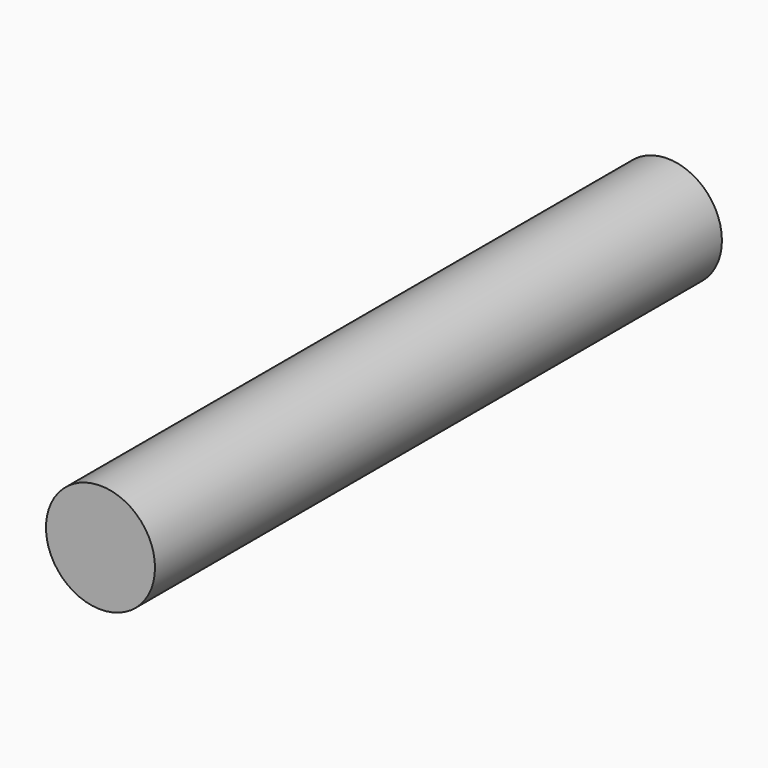
from build123d import *

# Parameters (mm, degrees)
F0_R     = 1
F1_DEPTH = 13
F2_R     = 0.5
F3_DEPTH = 5
F4_DEPTH = 10


with BuildPart() as f1:
    # F0 (on Front) → F1 (new body)
    with BuildSketch(Plane.XZ):
        Circle(F0_R)
    extrude(amount=F1_DEPTH)


with BuildPart() as f3:
    # F2 (on Front) → F3 (new body)
    with BuildSketch(Plane.XZ):
        Circle(F2_R)
    extrude(amount=F3_DEPTH)


with BuildPart() as f4:
    # F2 (on Front) → F4 (new body)
    with BuildSketch(Plane.XZ):
        Circle(F2_R)
    extrude(amount=F4_DEPTH)


solid = Compound([f1.part, f3.part, f4.part])
